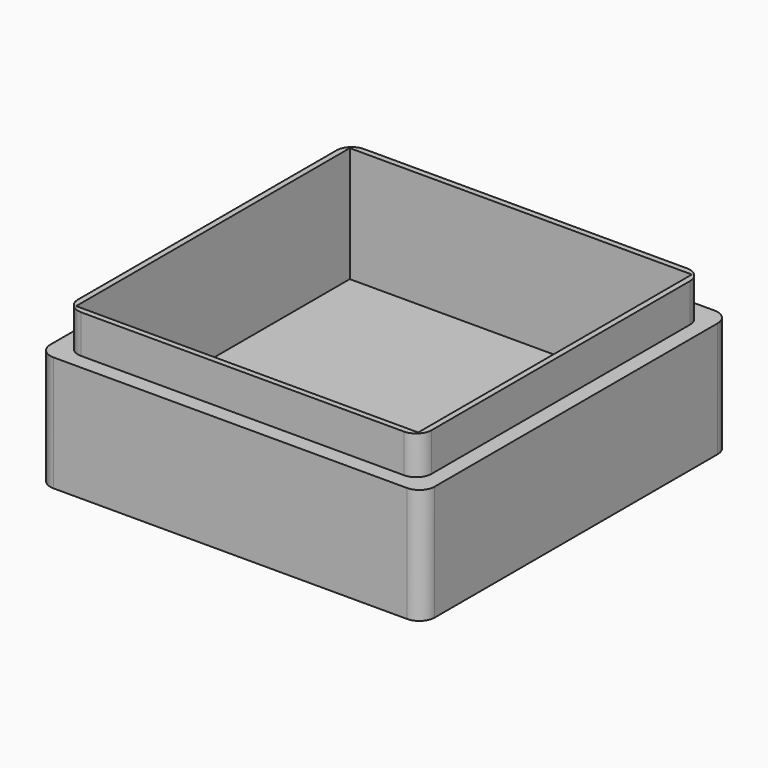
from build123d import *

# Parameters (mm, degrees)
F0_W     = 127
F0_H     = 127
F0_W_2   = 113.03
F0_H_2   = 113.03
F1_DEPTH = 38.1
F2_W     = 113.03
F2_H     = 113.03
F3_DEPTH = 12.7
F4_R     = 5.08
F5_W     = 116.84
F5_H     = 116.84
F5_W_2   = 113.03
F5_H_2   = 113.03
F6_DEPTH = 12.7
F7_R     = 5.08


with BuildPart() as f1:
    # F0 (on Top) → F1 (new body)
    with BuildSketch(Plane.XY):
        Rectangle(F0_W, F0_H)
        Rectangle(F0_W_2, F0_H_2, mode=Mode.SUBTRACT)
    extrude(amount=F1_DEPTH)

    # F2 (on Top) → F3 (join)
    with BuildSketch(Plane.XY):
        Rectangle(F2_W, F2_H)
    extrude(amount=F3_DEPTH)

    # F4
    f4_edges = [f1.edges().sort_by_distance(p)[0] for p in [
        (-63.5, -63.5, 19.05),
        (-63.5, 63.5, 19.05),
        (63.5, 63.5, 19.05),
        (63.5, -63.5, 19.05),
    ]]
    fillet(f4_edges, radius=F4_R)

    # F5 (on face) → F6 (join)
    with BuildSketch(Plane.XY.offset(38.1)):
        Rectangle(F5_W, F5_H)
        Rectangle(F5_W_2, F5_H_2, mode=Mode.SUBTRACT)
    extrude(amount=F6_DEPTH)

    # F7
    f7_edges = [f1.edges().sort_by_distance(p)[0] for p in [
        (-58.42, -58.42, 44.45),
        (58.42, -58.42, 44.45),
        (58.42, 58.42, 44.45),
        (-58.42, 58.42, 44.45),
    ]]
    fillet(f7_edges, radius=F7_R)


solid = f1.part
